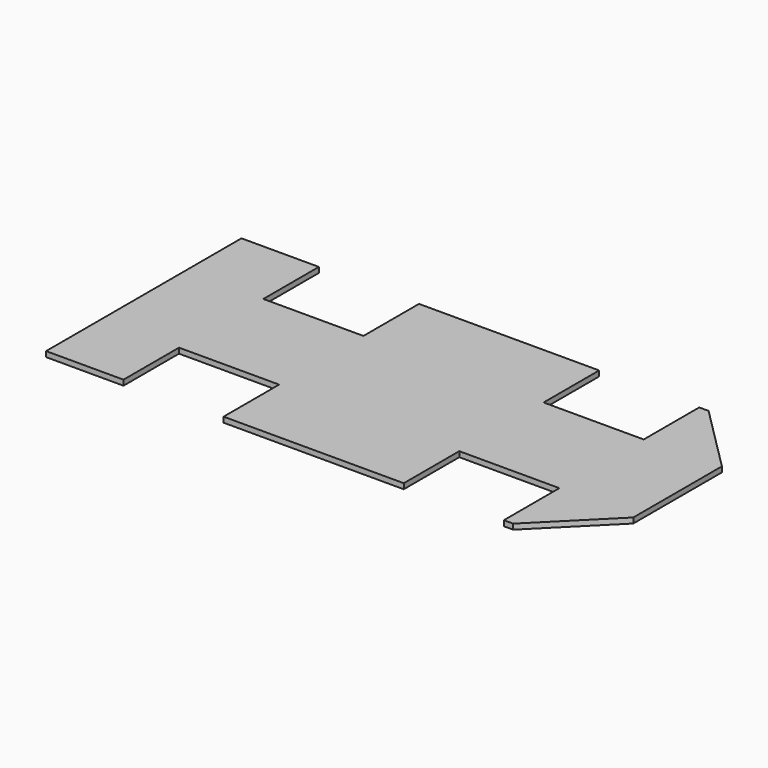
from build123d import *

# Parameters (mm, degrees)
F1_DEPTH = 2


with BuildPart() as f1:
    # F0 (on Top) → F1 (new body, symmetric)
    with BuildSketch(Plane.XY):
        Polygon((0, 91.5), (0, 0), (0, -91.5), (58, -91.5), (58, -39.5), (133, -39.5), (133, -91.5), (268, -91.5), (268, -39.5), (343, -39.5), (343, -91.5), (350, -91.5), (400, -41.5), (400, 0), (400, 41.5), (350, 91.5), (343, 91.5), (343, 39.5), (268, 39.5), (268, 91.5), (133, 91.5), (133, 39.5), (58, 39.5), (58, 91.5), align=None)
    extrude(amount=F1_DEPTH, both=True)


solid = f1.part
